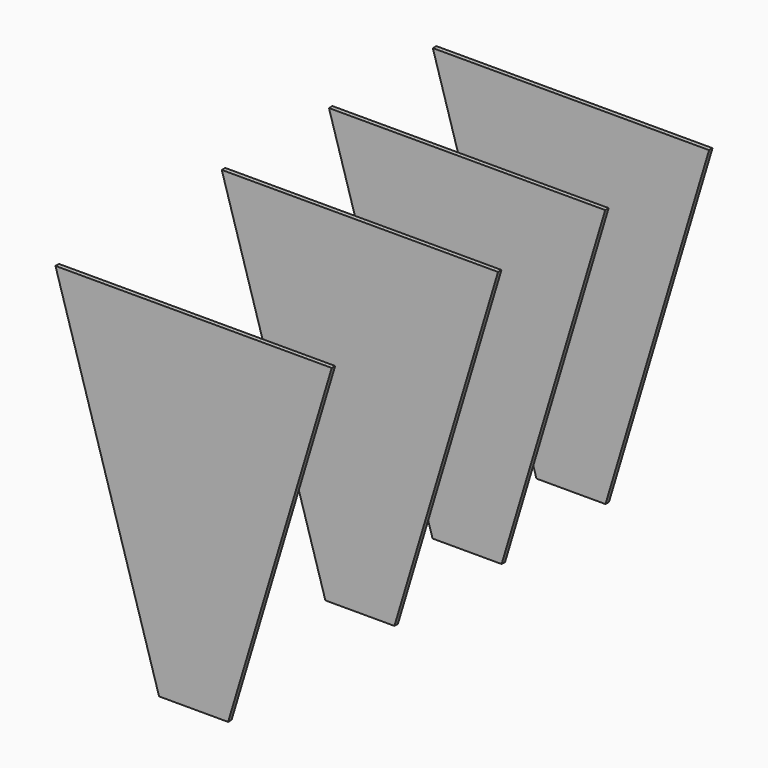
from build123d import *

# Parameters (mm, degrees)
F1_DEPTH = 3.175


with BuildPart() as f1:
    # F0 (on Front) → F1 (new body)
    with BuildSketch(Plane.XZ):
        Polygon((101.6, 37.132487), (0, 37.132487), (-101.6, 37.132487), (-25.4, -216.867513), (25.4, -216.867513), align=None)
    extrude(amount=F1_DEPTH)


with BuildPart() as f2_1:
    # F2: copy of F1
    add(f1.part.moved(Location((0, 152.908, 0))))


with BuildPart() as f3_1:
    # F3: copy of F2_1
    add(f2_1.part.moved(Location((0, 98.552, 0))))


with BuildPart() as f4_1:
    # F4: copy of F3_1
    add(f3_1.part.moved(Location((0, 95.504, 0))))


solid = Compound([f1.part, f2_1.part, f3_1.part, f4_1.part])
